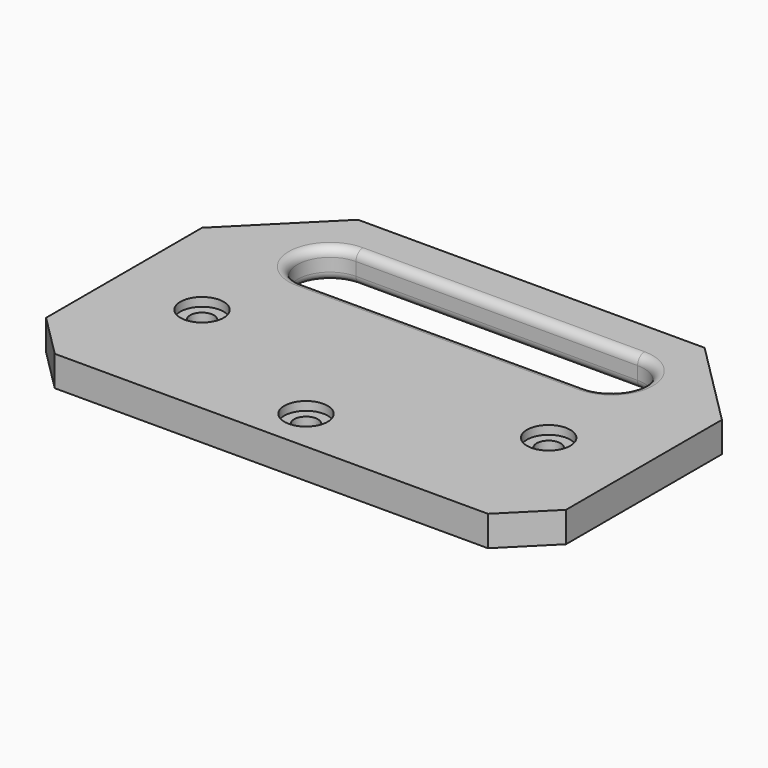
from build123d import *

# Parameters (mm, degrees)
F0_W           = 120
F0_H           = 75
F1_DEPTH       = 7
F2_SIZE        = 20
F3_W           = 65
F3_H           = 0.0804045208
F4_DEPTH       = 25
F5_DEPTH       = 5
F6_SIZE        = 10
F7_R           = 2
F9_D           = 5.5
F9_CBORE_D     = 10
F9_CBORE_DEPTH = 2


with BuildPart() as f1:
    # F0 (on Top) → F1 (new body)
    with BuildSketch(Plane.XY):
        Rectangle(F0_W, F0_H)
    extrude(amount=F1_DEPTH)

    # F2
    f2_edges = [f1.edges().sort_by_distance(p)[0] for p in [
        (-60, 37.5, 3.5),
        (60, 37.5, 3.5),
    ]]
    chamfer(f2_edges, length=F2_SIZE)

    # F3 (on face) → F4 (cut)
    with BuildSketch(Plane.XY.offset(7)):
        with BuildLine():
            ThreePointArc((32.5, 12.5402022604), (40, 20.0402022604), (32.5, 27.5402022604))
            Line((32.5, 27.5402022604), (-32.5, 27.5402022604))
            ThreePointArc((-32.5, 27.5402022604), (-40, 20.0402022604), (-32.5, 12.5402022604))
            Line((-32.5, 12.5402022604), (32.5, 12.5402022604))
        make_face()
        with Locations((0, 20)):
            Rectangle(F3_W, F3_H, mode=Mode.SUBTRACT)
    extrude(amount=-F4_DEPTH, mode=Mode.SUBTRACT)

    # F5 (cut): a face of the model
    f5_faces = [f1.faces().sort_by_distance(p)[0] for p in [
        (0, 20.0402022604, 3.5),
    ]]
    extrude(f5_faces, amount=-F5_DEPTH, mode=Mode.SUBTRACT)

    # F6
    f6_edges = [f1.edges().sort_by_distance(p)[0] for p in [
        (-60, -37.5, 3.5),
        (60, -37.5, 3.5),
    ]]
    chamfer(f6_edges, length=F6_SIZE)

    # F7
    f7_edges = [f1.edges().sort_by_distance(p)[0] for p in [
        (40, 20.040202, 7),
        (40, 20.040202, 0),
    ]]
    fillet(f7_edges, radius=F7_R)

    # F9 (through all)
    with Locations(Plane.XY.offset(7)):
        with Locations((-40, -7.5), (0, -27.5), (40, -7.5)):
            CounterBoreHole(F9_D / 2, F9_CBORE_D / 2, F9_CBORE_DEPTH)


solid = f1.part
